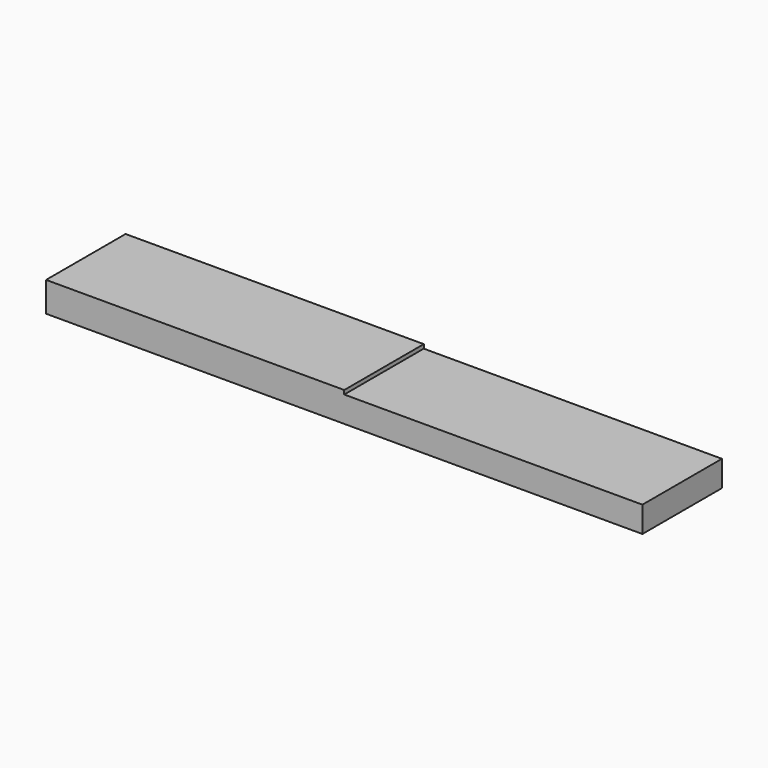
from build123d import *

# Parameters (mm, degrees)
SKETCH_W     = 60
SKETCH_H     = 10
PAD_DEPTH    = 2.6
SKETCH001_W  = 30
SKETCH001_H  = 10
PAD001_DEPTH = 0.4


with BuildPart() as part:
    # Sketch (on XY_Plane of Origin) → Pad (new body)
    with BuildSketch(Plane.XY):
        Rectangle(SKETCH_W, SKETCH_H)
    extrude(amount=PAD_DEPTH)

    # Sketch001 (on Face6 of Pad) → Pad001 (join)
    with BuildSketch(Plane.XY.offset(2.6)):
        with Locations((-15, 0)):
            Rectangle(SKETCH001_W, SKETCH001_H)
    extrude(amount=PAD001_DEPTH)


solid = part.part
